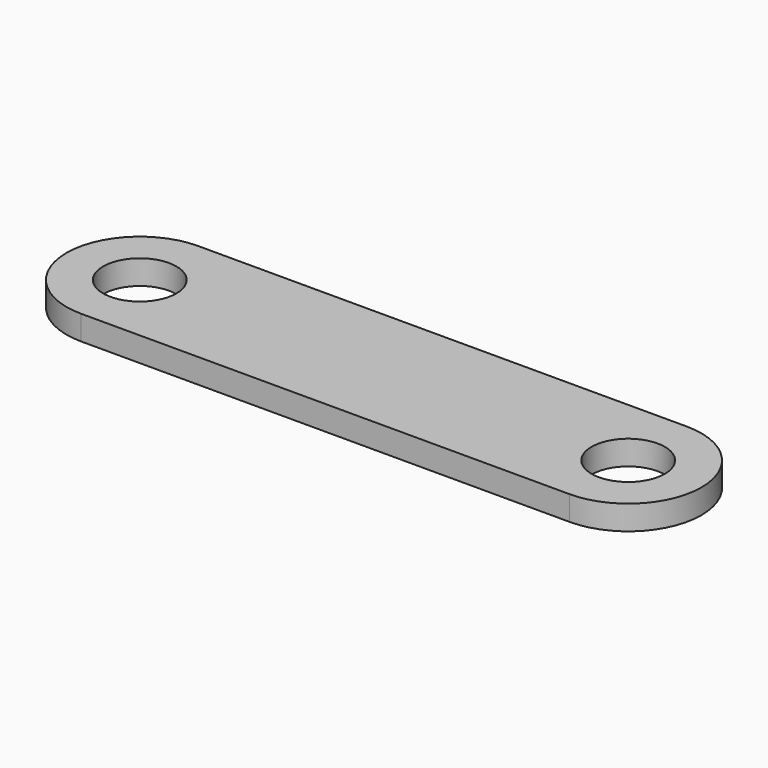
from build123d import *

# Parameters (mm, degrees)
SKETCH_R  = 1.5
PAD_DEPTH = 1


with BuildPart() as part:
    # Sketch → Pad (new body)
    with BuildSketch(Plane.XY):
        with BuildLine():
            ThreePointArc((-10, 3), (-13, 0), (-10, -3))
            Line((-10, -3), (10, -3))
            ThreePointArc((10, -3), (13, 0), (10, 3))
            Line((-10, 3), (10, 3))
        make_face()
        with Locations((-10, 0)):
            Circle(SKETCH_R, mode=Mode.SUBTRACT)
        with Locations((10, 0)):
            Circle(SKETCH_R, mode=Mode.SUBTRACT)
    extrude(amount=PAD_DEPTH)


solid = part.part
